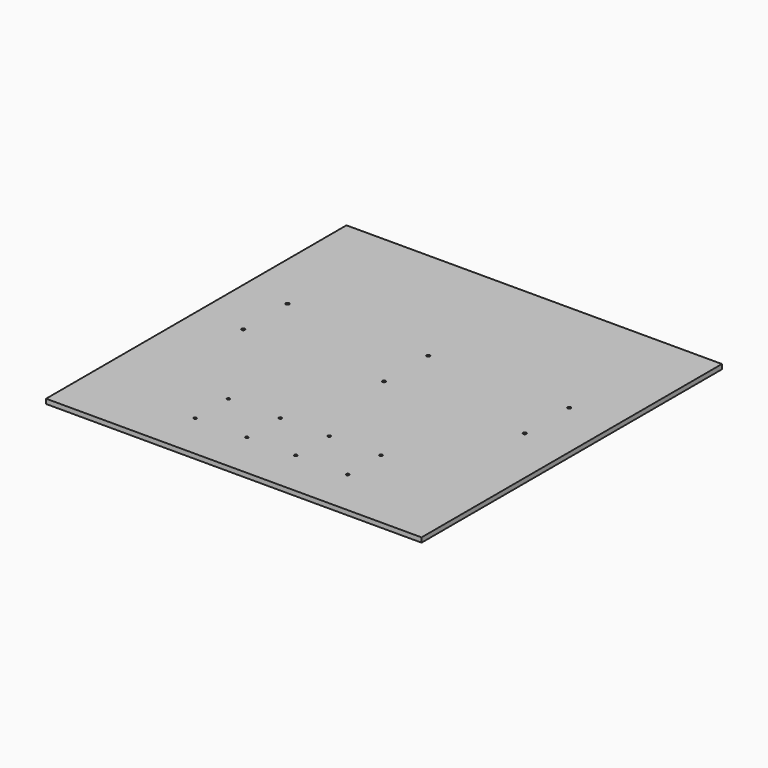
from build123d import *

# Parameters (mm, degrees)
F0_W     = 400
F0_H     = 400
F1_DEPTH = 5
F2_R     = 1.75
F3_DEPTH = 5.001
F4_R     = 1.5
F5_DEPTH = 5.001
F6_R     = 1.5
F7_DEPTH = 5.001


with BuildPart() as f1:
    # F0 (on Top) → F1 (new body)
    with BuildSketch(Plane.XY):
        with Locations((2.623281, 125.184649)):
            Rectangle(F0_W, F0_H)
    extrude(amount=F1_DEPTH)

    # F2 (on face) → F3 (cut, through all)
    with BuildSketch(Plane.XY.offset(5)):
        with Locations((-147.376719, 125.184649)):
            Circle(F2_R)
        with Locations((-147.376719, 184.184649)):
            Circle(F2_R)
        with Locations((2.623281, 125.184649)):
            Circle(F2_R)
        with Locations((2.623281, 184.184649)):
            Circle(F2_R)
        with Locations((152.623281, 125.184649)):
            Circle(F2_R)
        with Locations((152.623281, 184.184649)):
            Circle(F2_R)
    extrude(amount=-F3_DEPTH, mode=Mode.SUBTRACT)

    # F4 (on face) → F5 (cut, through all)
    with BuildSketch(Plane.XY.offset(5)):
        with Locations((-23.376719, -24.815351)):
            Circle(F4_R)
        with Locations((-23.376719, 19.634649)):
            Circle(F4_R)
        with Locations((28.623281, -24.815351)):
            Circle(F4_R)
        with Locations((28.623281, 19.634649)):
            Circle(F4_R)
    extrude(amount=-F5_DEPTH, mode=Mode.SUBTRACT)

    # F6 (on face) → F7 (cut, through all)
    with BuildSketch(Plane.XY.offset(5)):
        with Locations((-78.651719, -24.815351)):
            Circle(F6_R)
        with Locations((-78.651719, 19.634649)):
            Circle(F6_R)
        with Locations((83.898281, -24.815351)):
            Circle(F6_R)
        with Locations((83.898281, 19.634649)):
            Circle(F6_R)
    extrude(amount=-F7_DEPTH, mode=Mode.SUBTRACT)


solid = f1.part
